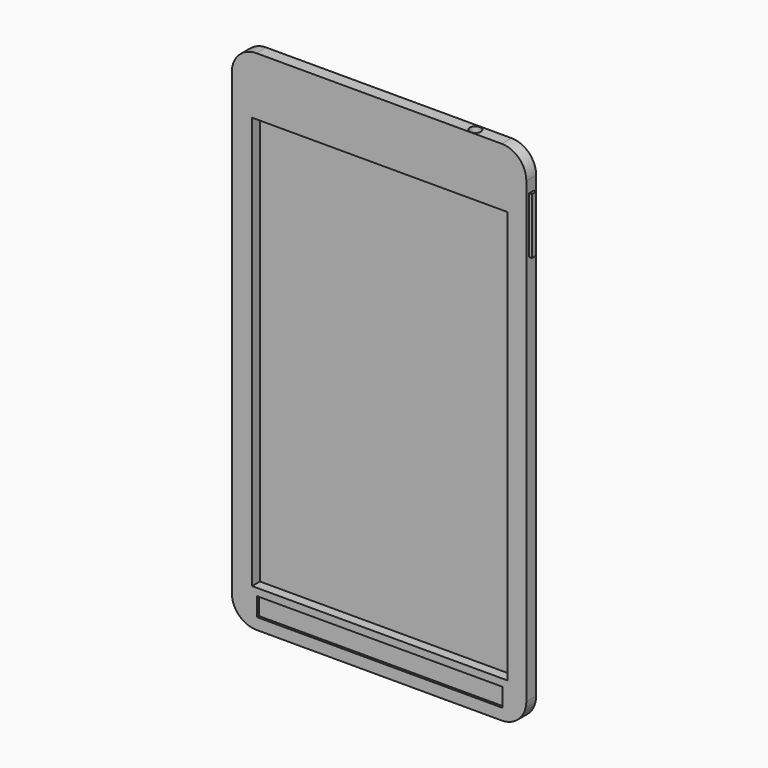
from build123d import *

# Parameters (mm, degrees)
F0_W      = 60.821578
F0_H      = 104.845289
F1_DEPTH  = 2.54
F2_R      = 5.08
F3_R      = 5.08
F4_R      = 5.08
F5_R      = 5.08
F6_R      = 4.017184
F7_DEPTH  = 0.762
F8_W      = 20.353574
F8_H      = 6.179251
F9_DEPTH  = 0.762
F10_R     = 1.27
F11_W     = 52.752584
F11_H     = 85.154727
F12_DEPTH = 2.045468
F13_W     = 50.705392
F13_H     = 3.825493
F14_DEPTH = 0.505788
F16_R     = 1.146481
F17_DEPTH = 1.574736
F19_W     = 1.183123
F19_H     = 12.295741
F20_DEPTH = 0.381
F21_W     = 1.133876
F21_H     = 11.616781
F22_DEPTH = 0.540292


with BuildPart() as f1:
    # F0 (on Front) → F1 (new body)
    with BuildSketch(Plane.XZ):
        with Locations((-0.1534, -3.119452)):
            Rectangle(F0_W, F0_H)
    extrude(amount=F1_DEPTH)

    # F2
    f2_edges = [f1.edges().sort_by_distance(p)[0] for p in [
        (30.257389, -1.27, -55.542096),
    ]]
    fillet(f2_edges, radius=F2_R)

    # F3
    f3_edges = [f1.edges().sort_by_distance(p)[0] for p in [
        (-30.564189, -1.27, -55.542096),
    ]]
    fillet(f3_edges, radius=F3_R)

    # F4
    f4_edges = [f1.edges().sort_by_distance(p)[0] for p in [
        (-30.564189, -1.27, 49.303193),
    ]]
    fillet(f4_edges, radius=F4_R)

    # F5
    f5_edges = [f1.edges().sort_by_distance(p)[0] for p in [
        (30.257389, -1.27, 49.303193),
    ]]
    fillet(f5_edges, radius=F5_R)

    # F6 (on face) → F7 (join)
    with BuildSketch(Plane(origin=(0, 0, 0), x_dir=(-1, 0, 0), z_dir=(0, 1, 0))):
        with Locations((-18.701095, 42.867944)):
            Circle(F6_R)
    extrude(amount=F7_DEPTH)

    # F8 (on face) → F9 (join)
    with BuildSketch(Plane(origin=(0, 0, 0), x_dir=(-1, 0, 0), z_dir=(0, 1, 0))):
        with Locations((-1.897635, 43.139625)):
            Rectangle(F8_W, F8_H)
    extrude(amount=F9_DEPTH)

    # F10
    f10_edges = [f1.edges().sort_by_distance(p)[0] for p in [
        (-8.279152, 0.381, 46.229251),
        (-8.279152, 0.381, 40.05),
        (12.074422, 0.381, 40.05),
        (12.074422, 0.381, 46.229251),
    ]]
    fillet(f10_edges, radius=F10_R)

    # F11 (on face) → F12 (cut)
    with BuildSketch(Plane.XZ.offset(2.54)):
        with Locations((0, -5.289763)):
            Rectangle(F11_W, F11_H)
    extrude(amount=-F12_DEPTH, mode=Mode.SUBTRACT)

    # F13 (on face) → F14 (cut)
    with BuildSketch(Plane.XZ.offset(2.54)):
        with Locations((0.016911, -51.271375)):
            Rectangle(F13_W, F13_H)
    extrude(amount=-F14_DEPTH, mode=Mode.SUBTRACT)

    # F16 (on face) → F17 (cut)
    with BuildSketch(Plane.XY.offset(49.303193)):
        with Locations((18.786654, -1.340227)):
            Circle(F16_R)
    extrude(amount=-F17_DEPTH, mode=Mode.SUBTRACT)

    # F19 (on face) → F20 (join)
    with BuildSketch(Plane(origin=(-30.564189, 0, 0), x_dir=(0, -1, 0), z_dir=(-1, 0, 0))):
        with Locations((1.301603, 31.14997)):
            Rectangle(F19_W, F19_H)
    extrude(amount=F20_DEPTH)

    # F21 (on face) → F22 (join)
    with BuildSketch(Plane.YZ.offset(30.257389)):
        with Locations((-1.228773, 35.857343)):
            Rectangle(F21_W, F21_H)
    extrude(amount=F22_DEPTH)


solid = f1.part
